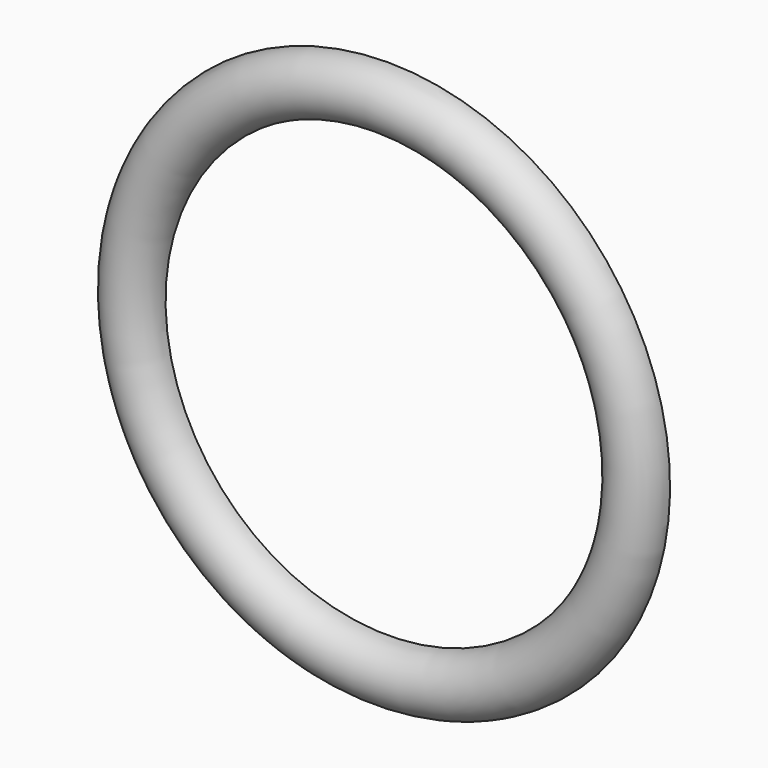
from build123d import *


with BuildPart() as f2:
    # F1 (on Right) → F2 (revolve)
    with BuildSketch(Plane.YZ):
        with BuildLine():
            Line((0, 19.0477518058), (0, 24.1277518058))
            ThreePointArc((0, 24.1277518058), (-2.54, 21.5877518058), (0, 19.0477518058))
        make_face()
    revolve(axis=Axis((0, 0, 0), (0, -1, 0)))


solid = f2.part
